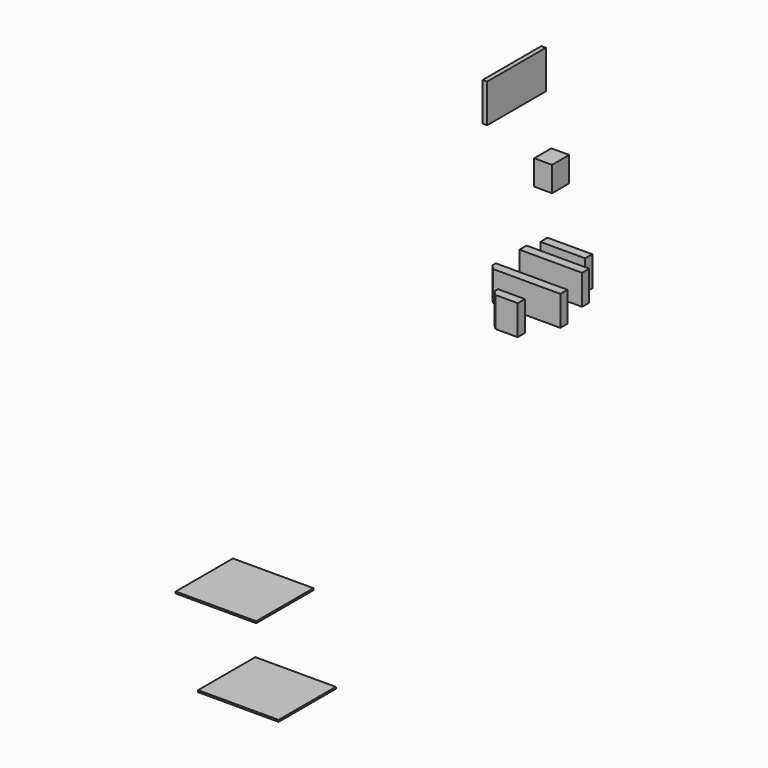
from build123d import *

# Parameters (mm, degrees)
BOX031_W           = 3
BOX031_H           = 1
BOX031_DEPTH       = 3.35
CHAMFER002006_SIZE = 0.5
BOX028_W           = 8
BOX028_H           = 1
BOX028_DEPTH       = 3.35
CHAMFER002005_SIZE = 0.5
BOX029_W           = 7
BOX029_H           = 1
BOX029_DEPTH       = 3.35
BOX030_W           = 5
BOX030_H           = 1
BOX030_DEPTH       = 3.35
BOX034_W           = 9
BOX034_H           = 8
BOX034_DEPTH       = 0.2
BOX037_W           = 0.5
BOX037_H           = 8.2
BOX037_DEPTH       = 4.3
BOX036_W           = 2
BOX036_H           = 2.4
BOX036_DEPTH       = 2.8
BOX035_W           = 9
BOX035_H           = 8
BOX035_DEPTH       = 0.2


with BuildPart() as obj1:
    # Box031 → Box031 (new body)
    with BuildSketch(Plane(origin=(11.7, 4.8, 10.7), x_dir=(1, 0, 0), z_dir=(0, 0, 1))):
        with Locations((1.5, 0.5)):
            Rectangle(BOX031_W, BOX031_H)
    extrude(amount=BOX031_DEPTH)

    # Chamfer002006
    chamfer002006_edges = [obj1.edges().sort_by_distance(p)[0] for p in [
        (11.7, 4.8, 12.375),
    ]]
    chamfer(chamfer002006_edges, length=CHAMFER002006_SIZE)


with BuildPart() as obj2:
    # Box028 → Box028 (new body)
    with BuildSketch(Plane(origin=(8.5, 8.5, 10.7), x_dir=(1, 0, 0), z_dir=(0, 0, 1))):
        with Locations((4, 0.5)):
            Rectangle(BOX028_W, BOX028_H)
    extrude(amount=BOX028_DEPTH)

    # Chamfer002005
    chamfer002005_edges = [obj2.edges().sort_by_distance(p)[0] for p in [
        (8.5, 8.5, 12.375),
    ]]
    chamfer(chamfer002005_edges, length=CHAMFER002005_SIZE)


with BuildPart() as obj3:
    # Box029 → Box029 (new body)
    with BuildSketch(Plane(origin=(8.5, 12.8, 10.7), x_dir=(1, 0, 0), z_dir=(0, 0, 1))):
        with Locations((3.5, 0.5)):
            Rectangle(BOX029_W, BOX029_H)
    extrude(amount=BOX029_DEPTH)


with BuildPart() as obj4:
    # Box030 → Box030 (new body)
    with BuildSketch(Plane(origin=(9, 15.1, 10.7), x_dir=(1, 0, 0), z_dir=(0, 0, 1))):
        with Locations((2.5, 0.5)):
            Rectangle(BOX030_W, BOX030_H)
    extrude(amount=BOX030_DEPTH)


with BuildPart() as probe_support002:
    # Box034 → Box034 (new body)
    with BuildSketch(Plane(origin=(22, -49, 0), x_dir=(1, 0, 0), z_dir=(0, 0, 1))):
        with Locations((4.5, 4)):
            Rectangle(BOX034_W, BOX034_H)
    extrude(amount=BOX034_DEPTH)


with BuildPart() as box037:
    # Box037 → Box037 (new body)
    with BuildSketch(Plane(origin=(-15.92, 38.18, 8.2), x_dir=(1, 0, 0), z_dir=(0, 0, 1))):
        with Locations((0.25, 4.1)):
            Rectangle(BOX037_W, BOX037_H)
    extrude(amount=BOX037_DEPTH)


with BuildPart() as box036:
    # Box036 → Box036 (new body)
    with BuildSketch(Plane(origin=(-14.8, 43.98, 0), x_dir=(1, 0, 0), z_dir=(0, 0, 1))):
        with Locations((1, 1.2)):
            Rectangle(BOX036_W, BOX036_H)
    extrude(amount=BOX036_DEPTH)


with BuildPart() as full_custom_support:
    # Box035 → Box035 (new body)
    with BuildSketch(Plane(origin=(19.5, -49, 8.9), x_dir=(1, 0, 0), z_dir=(0, 0, 1))):
        with Locations((4.5, 4)):
            Rectangle(BOX035_W, BOX035_H)
    extrude(amount=BOX035_DEPTH)

    # Fusion002010004002002006003002002: union obj1, obj2, obj3, obj4, probe-support002, Box037, Box036
    add(obj1.part)
    add(obj2.part)
    add(obj3.part)
    add(obj4.part)
    add(probe_support002.part)
    add(box037.part)
    add(box036.part)


solid = full_custom_support.part
